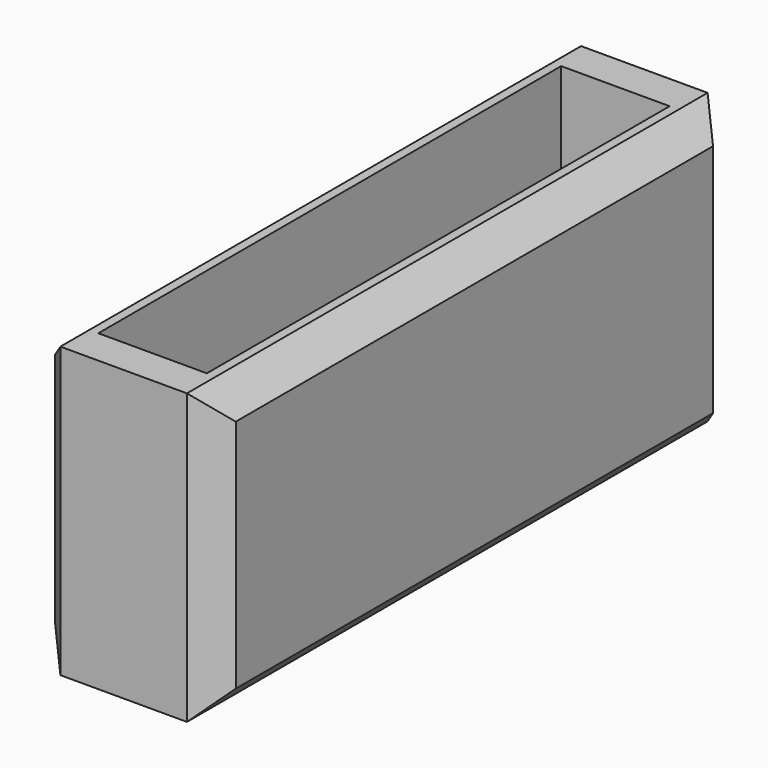
from build123d import *

# Parameters (mm, degrees)
F0_W     = 127
F0_H     = 457.2
F0_W_2   = 76.2
F0_H_2   = 406.4
F1_DEPTH = 203.2
F2_SIZE  = 19.05


with BuildPart() as f1:
    # F0 (on Top) → F1 (new body)
    with BuildSketch(Plane.XY):
        with Locations((63.5, 228.6)):
            Rectangle(F0_W, F0_H)
        with Locations((63.5, 228.6)):
            Rectangle(F0_W_2, F0_H_2, mode=Mode.SUBTRACT)
    extrude(amount=F1_DEPTH)

    # F2
    f2_edges = [f1.edges().sort_by_distance(p)[0] for p in [
        (127, 228.6, 203.2),
        (127, 228.6, 0),
        (0, 228.6, 203.2),
        (0, 228.6, 0),
        (127, 0, 101.6),
        (0, 0, 101.6),
        (127, 457.2, 101.6),
        (0, 457.2, 101.6),
    ]]
    chamfer(f2_edges, length=F2_SIZE)


solid = f1.part
